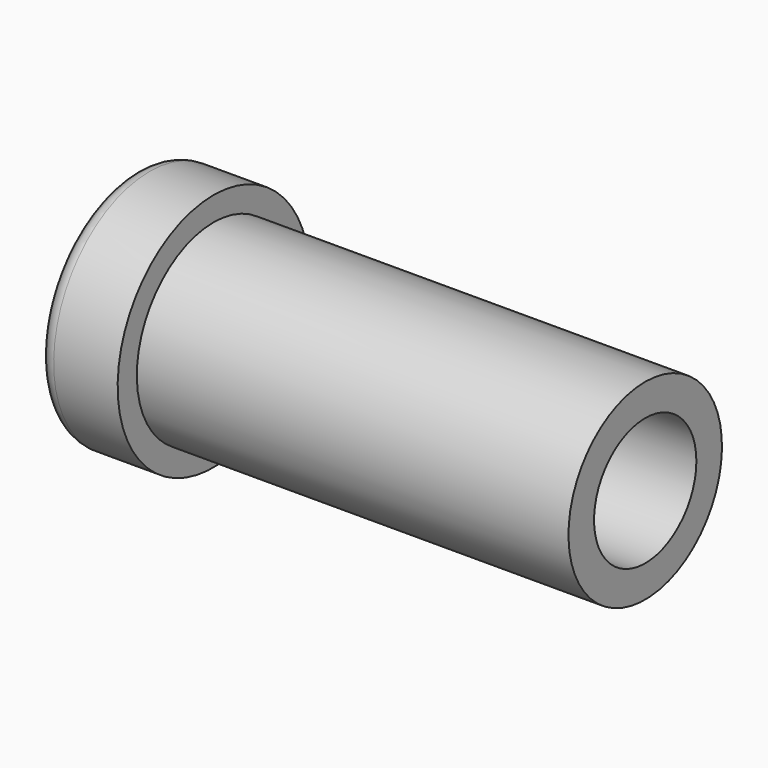
from build123d import *

# Parameters (mm, degrees)
F2_R           = 0.5
F4_D           = 4
F4_CSINK_D     = 6
F4_CSINK_ANGLE = 90


with BuildPart() as f1:
    # F0 (on Front) → F1 (revolve)
    with BuildSketch(Plane.XZ):
        Polygon((0, 3.75), (0, 0), (16, 0), (16, 3), (2.5, 3), (2.5, 3.75), align=None)
    revolve(axis=Axis((8, 0, 0), (-1, 0, 0)))

    # F2
    f2_edges = [f1.edges().sort_by_distance(p)[0] for p in [
        (0, 0, -3.75),
    ]]
    fillet(f2_edges, radius=F2_R)

    # F4 (through all)
    with Locations(Plane(origin=(0, 0, 0), x_dir=(0, -1, 0), z_dir=(-1, 0, 0))):
        with Locations((0, 0)):
            CounterSinkHole(F4_D / 2, F4_CSINK_D / 2, counter_sink_angle=F4_CSINK_ANGLE)


solid = f1.part
